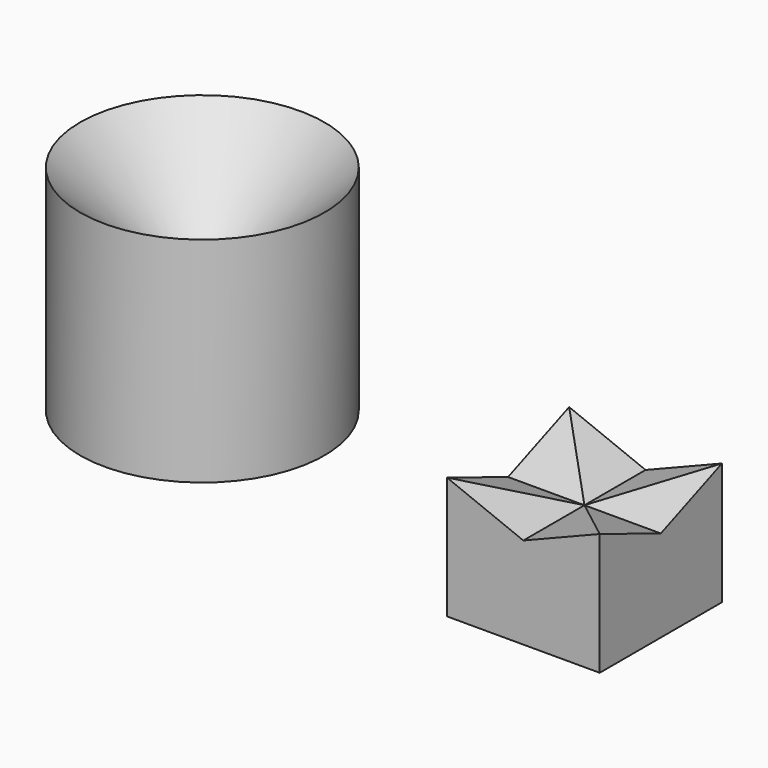
from build123d import *

# Parameters (mm, degrees)
F2_W     = 10
F2_H     = 10
F3_DEPTH = 8
F5_DEPTH = 10
F7_DEPTH = 25


with BuildPart() as f1:
    # F0 (on Front) → F1 (revolve)
    with BuildSketch(Plane.XZ):
        Polygon((-6, 2), (0, 2), (0, 3.7), (-0.7, 3.7), (-0.7, 6.7), (-8, 14), (-8, 0), (-6, 0), align=None)
    revolve(axis=Axis((0, 0, 2.85), (0, 0, -1)))


with BuildPart() as f3:
    # F2 (on Top) → F3 (new body)
    with BuildSketch(Plane.XY):
        with Locations((29.015555, -5)):
            Rectangle(F2_W, F2_H)
    extrude(amount=F3_DEPTH)

    # F4 (on face) → F5 (cut, through all)
    with BuildSketch(Plane.XZ.offset(10)):
        Polygon((34.015555, 8), (24.015555, 8), (29.015555, 6), align=None)
    extrude(amount=-F5_DEPTH, mode=Mode.SUBTRACT)

    # F6 (on face) → F7 (cut)
    with BuildSketch(Plane.YZ.offset(34.015555)):
        Polygon((0, 8), (-10, 8), (-5, 6), align=None)
    extrude(amount=-F7_DEPTH, mode=Mode.SUBTRACT)


solid = Compound([f1.part, f3.part])
